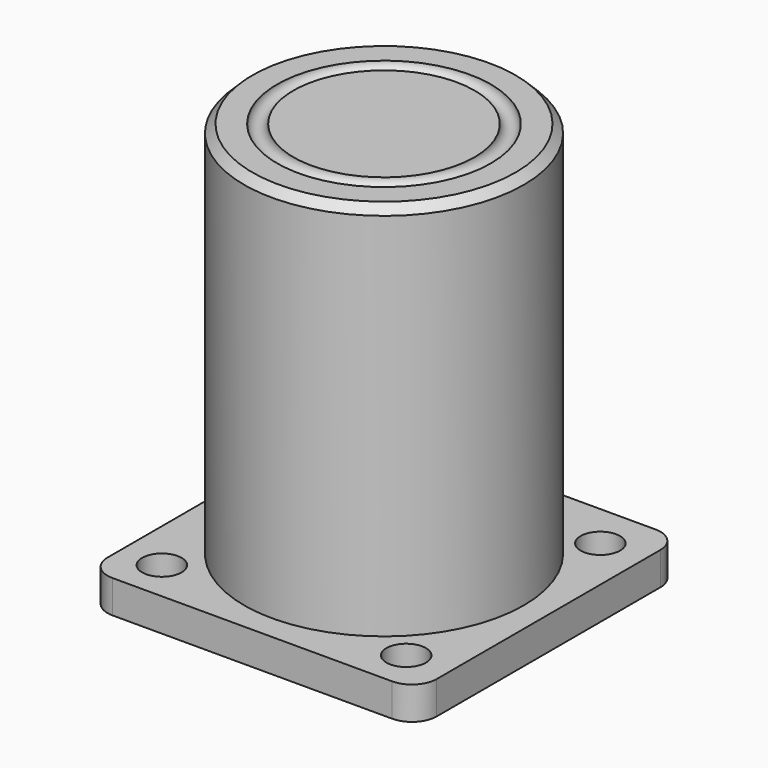
from build123d import *

# Parameters (mm, degrees)
TORUS_R           = 1
CYLINDER001_R     = 17
CYLINDER001_DEPTH = 50
CHAMFER_SIZE      = 1
CYLINDER_R        = 2.4
CYLINDER_DEPTH    = 3.1
ARRAY_X_COUNT     = 2
ARRAY_X_PITCH     = 29.7
ARRAY_Y_COUNT     = 2
ARRAY_Y_PITCH     = 29.5
BOX_W             = 40
BOX_H             = 40
BOX_DEPTH         = 4
FILLET_R          = 3
FILLET001_R       = 3
FILLET002_R       = 3
FILLET003_R       = 3


with BuildPart() as torus:
    # Torus → Torus (revolve)
    with BuildSketch(Plane(origin=(20, 20, 50), x_dir=(1, 0, 0), z_dir=(0, -1, 0))):
        with Locations((12, 0)):
            Circle(TORUS_R)
    revolve(axis=Axis((20, 20, 50), (0, 0, 1)))


with BuildPart() as chamfer_body:
    # Cylinder001 → Cylinder001 (new body)
    with BuildSketch(Plane(origin=(20, 20, 0), x_dir=(1, 0, 0), z_dir=(0, 0, 1))):
        Circle(CYLINDER001_R)
    extrude(amount=CYLINDER001_DEPTH)

    # Chamfer
    chamfer_edges = [chamfer_body.edges().sort_by_distance(p)[0] for p in [
        (3, 20, 50),
    ]]
    chamfer(chamfer_edges, length=CHAMFER_SIZE)


with BuildPart() as array:
    # Cylinder → Cylinder (new body)
    with BuildSketch(Plane(origin=(5, 5, 1.1), x_dir=(1, 0, 0), z_dir=(0, 0, 1))):
        Circle(CYLINDER_R)
    extrude(amount=CYLINDER_DEPTH)

    # Array X: Array ×2


with BuildPart() as array_1:
    add(array.part)
    with Locations(*[(i * ARRAY_X_PITCH, 0, 0) for i in range(1, ARRAY_X_COUNT)]):
        add(array.part)

    # Array Y: Array ×2


with BuildPart() as array_2:
    add(array_1.part)
    with Locations(*[(0, i * ARRAY_Y_PITCH, 0) for i in range(1, ARRAY_Y_COUNT)]):
        add(array_1.part)


with BuildPart() as cut001:
    # Box → Box (new body)
    with BuildSketch(Plane.XY):
        with Locations((20, 20)):
            Rectangle(BOX_W, BOX_H)
    extrude(amount=BOX_DEPTH)

    # Fillet
    fillet_edges = [cut001.edges().sort_by_distance(p)[0] for p in [
        (0, 0, 2),
    ]]
    fillet(fillet_edges, radius=FILLET_R)

    # Fillet001
    fillet001_edges = [cut001.edges().sort_by_distance(p)[0] for p in [
        (40, 0, 2),
    ]]
    fillet(fillet001_edges, radius=FILLET001_R)

    # Fillet002
    fillet002_edges = [cut001.edges().sort_by_distance(p)[0] for p in [
        (40, 40, 2),
    ]]
    fillet(fillet002_edges, radius=FILLET002_R)

    # Fillet003
    fillet003_edges = [cut001.edges().sort_by_distance(p)[0] for p in [
        (0, 40, 2),
    ]]
    fillet(fillet003_edges, radius=FILLET003_R)

    # Cut: cut Array
    add(array_2.part, mode=Mode.SUBTRACT)

    # Fusion: union Chamfer body
    add(chamfer_body.part)

    # Cut001: cut Torus
    add(torus.part, mode=Mode.SUBTRACT)


solid = cut001.part
